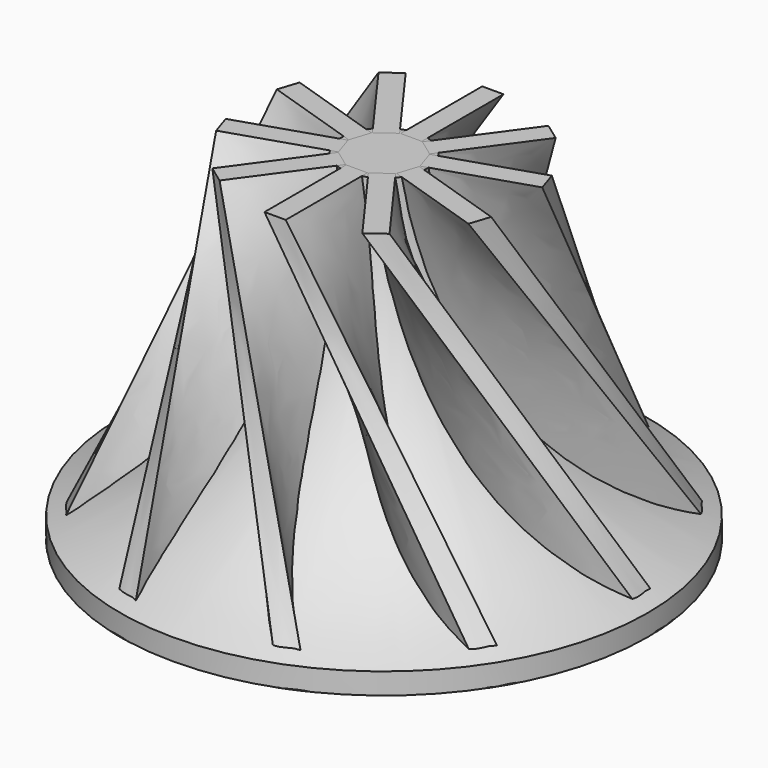
from build123d import *

# Parameters (mm, degrees)
F3_W     = 2.5
F3_H     = 12
F7_COUNT = 10


with BuildPart() as f1:
    # F0 (on Front) → F1 (revolve)
    with BuildSketch(Plane.XZ):
        with BuildLine():
            Line((0, 40), (0, 0))
            Line((0, 0), (31.0259386897, 0))
            Line((31.0259386897, 0), (31.0259386897, 2.5))
            ThreePointArc((31.0259386897, 2.5), (12.138740373, 17.1731380515), (5, 40))
            Line((5, 40), (0, 40))
        make_face()
    revolve(axis=Axis((0, 0, 20), (0, 0, 1)))


with BuildPart() as f6:
    # F3 (on offset) → F6 section 0
    with BuildSketch(Plane.XY.offset(40)):
        with Locations((0, -10)):
            Rectangle(F3_W, F3_H)
    # F5 (on Top) → F6 section 1
    with BuildSketch(Plane.XY):
        with BuildLine():
            ThreePointArc((27.2930994146, -14.7545110363), (14.4618231562, -10.3046842381), (6.1667170796, 0.4486326516))
            Line((6.1667170796, 0.4486326516), (3.8332829204, -0.4486326516))
            ThreePointArc((3.8332829204, -0.4486326516), (12.4635848517, -11.9362345631), (25.848857266, -17.1594128576))
            ThreePointArc((25.848857266, -17.1594128576), (26.5981724589, -15.9732931302), (27.2930994146, -14.7545110363))
        make_face()
    loft()


with BuildPart() as f7_1:
    # F7: instance of F6
    add(f6.part.rotate(Axis((0, 0, 20), (0, 0, -1)), 1 * 360 / F7_COUNT))


with BuildPart() as f7_2:
    # F7: instance of F6
    add(f6.part.rotate(Axis((0, 0, 20), (0, 0, -1)), 2 * 360 / F7_COUNT))


with BuildPart() as f7_3:
    # F7: instance of F6
    add(f6.part.rotate(Axis((0, 0, 20), (0, 0, -1)), 3 * 360 / F7_COUNT))


with BuildPart() as f7_4:
    # F7: instance of F6
    add(f6.part.rotate(Axis((0, 0, 20), (0, 0, -1)), 4 * 360 / F7_COUNT))


with BuildPart() as f7_5:
    # F7: instance of F6
    add(f6.part.rotate(Axis((0, 0, 20), (0, 0, -1)), 5 * 360 / F7_COUNT))


with BuildPart() as f7_6:
    # F7: instance of F6
    add(f6.part.rotate(Axis((0, 0, 20), (0, 0, -1)), 6 * 360 / F7_COUNT))


with BuildPart() as f7_7:
    # F7: instance of F6
    add(f6.part.rotate(Axis((0, 0, 20), (0, 0, -1)), 7 * 360 / F7_COUNT))


with BuildPart() as f7_8:
    # F7: instance of F6
    add(f6.part.rotate(Axis((0, 0, 20), (0, 0, -1)), 8 * 360 / F7_COUNT))


with BuildPart() as f7_9:
    # F7: instance of F6
    add(f6.part.rotate(Axis((0, 0, 20), (0, 0, -1)), 9 * 360 / F7_COUNT))


solid = Compound([f1.part, f6.part, f7_1.part, f7_2.part, f7_3.part, f7_4.part, f7_5.part, f7_6.part, f7_7.part, f7_8.part, f7_9.part])
